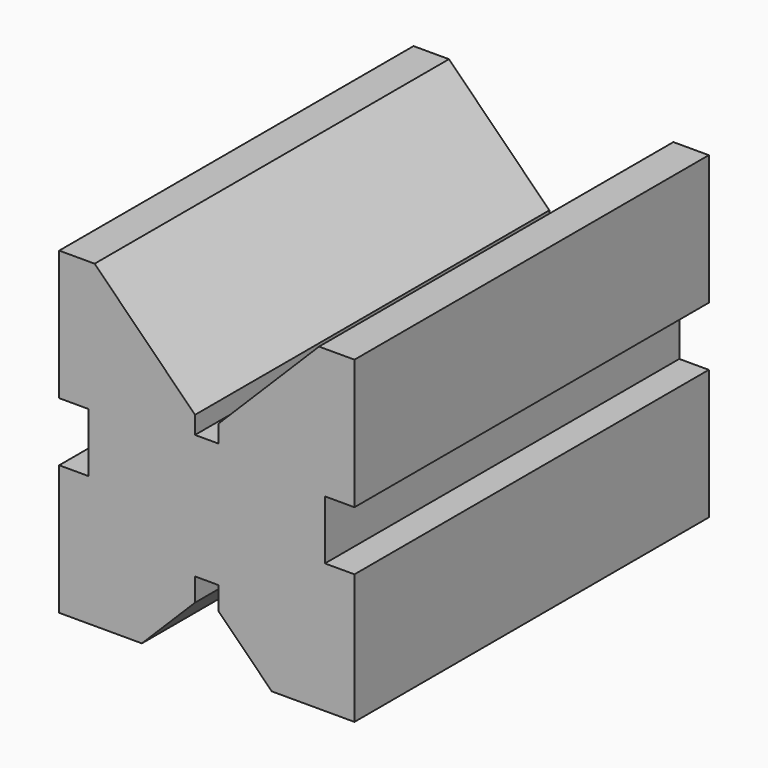
from build123d import *

# Parameters (mm, degrees)
F1_DEPTH      = 37.5
F1_DEPTH_BACK = 37.5


with BuildPart() as f1:
    # F0 (on Front) → F1 (new body, two sides)
    with BuildSketch(Plane.XZ) as f1_sk:
        Polygon((11, -19.012283), (25, -19.012283), (25, 2.987717), (20, 2.987717), (20, 12.987717), (25, 12.987717), (25, 34.987717), (19, 34.987717), (2, 17.987717), (2, 14.987717), (-2, 14.987717), (-2, 17.987717), (-19, 34.987717), (-25, 34.987717), (-25, 12.987717), (-20, 12.987717), (-20, 2.987717), (-25, 2.987717), (-25, -19.012283), (-11, -19.012283), (-2, -10.012283), (-2, -6.102244), (0, -6.102244), (1.02444, -6.102244), (2, -6.102244), (2, -10.012283), align=None)
    extrude(amount=F1_DEPTH)
    extrude(f1_sk.sketch, amount=-F1_DEPTH_BACK)


solid = f1.part
